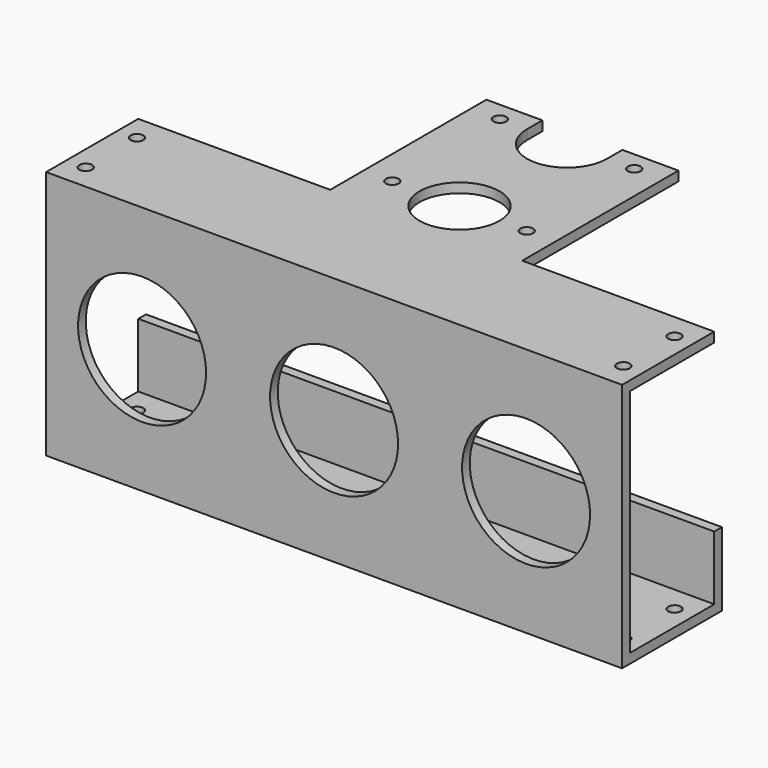
from build123d import *

# Parameters (mm, degrees)
F0_W      = 30
F0_H      = 48.5
F1_DEPTH  = 1.5
F2_W      = 30
F2_H      = 1.5
F3_DEPTH  = 37.5
F4_W      = 30
F4_H      = 1.5
F5_DEPTH  = 18
F6_W      = 30
F6_H      = 1.5
F7_DEPTH  = 10
F9_DEPTH  = 30
F11_R     = 1
F11_R_2   = 6.25
F12_DEPTH = 1.5
F13_R     = 1
F14_DEPTH = 1.5
F15_R     = 10
F16_DEPTH = 1.5


with BuildPart() as f1:
    # F0 (on Top) → F1 (new body)
    with BuildSketch(Plane.XY):
        Rectangle(F0_W, F0_H)
    extrude(amount=F1_DEPTH)

    # F2 (on face) → F3 (join)
    with BuildSketch(Plane(origin=(0, 0, 0), x_dir=(1, 0, 0), z_dir=(0, 0, -1))):
        with Locations((0, 23.5)):
            Rectangle(F2_W, F2_H)
    extrude(amount=F3_DEPTH)

    # F4 (on face) → F5 (join)
    with BuildSketch(Plane(origin=(0, -22.75, 0), x_dir=(-1, 0, 0), z_dir=(0, 1, 0))):
        with Locations((0, -36.75)):
            Rectangle(F4_W, F4_H)
    extrude(amount=F5_DEPTH)

    # F6 (on face) → F7 (join)
    with BuildSketch(Plane.XY.offset(-36)):
        with Locations((0, -5.5)):
            Rectangle(F6_W, F6_H)
    extrude(amount=F7_DEPTH)

    # F8 (on face) → F9 (join)
    with BuildSketch(Plane.YZ.offset(15)):
        Polygon((-22.75, 1.5), (-24.25, 1.5), (-24.25, -37.5), (-22.75, -37.5), (-6.25, -37.5), (-4.75, -37.5), (-4.75, -26), (-6.25, -26), (-6.25, -36), (-22.75, -36), (-22.75, 0), (-6.25, 0), (-6.25, 1.5), align=None)
    extrude(amount=F9_DEPTH)

    # F10: F1 across plane


with BuildPart() as f1_1:
    add(f1.part)
    add(f1.part.mirror(Plane.YZ))

    # F11 (on face) → F12 (cut, through all)
    with BuildSketch(Plane.XY.offset(1.5)):
        with Locations((10.5, 21.25)):
            Circle(F11_R)
        with Locations((10.5, 0.25)):
            Circle(F11_R)
        with BuildLine():
            Line((-6.25, 24.25), (-6.25, 21.25))
            ThreePointArc((-6.25, 21.25), (0, 15), (6.25, 21.25))
            Line((6.25, 21.25), (6.25, 24.25))
            Line((6.25, 24.25), (-6.25, 24.25))
        make_face()
        with Locations((-10.5, 21.25)):
            Circle(F11_R)
        with Locations((-10.5, 0.25)):
            Circle(F11_R)
        with Locations((0, 0.25)):
            Circle(F11_R_2)
        with Locations((-42, -10.25)):
            Circle(F11_R)
        with Locations((-42, -20.25)):
            Circle(F11_R)
        with Locations((42, -10.25)):
            Circle(F11_R)
        with Locations((42, -20.25)):
            Circle(F11_R)
    extrude(amount=-F12_DEPTH, mode=Mode.SUBTRACT)

    # F13 (on face) → F14 (cut, through all)
    with BuildSketch(Plane.XY.offset(-36)):
        with Locations((-42, -10.25)):
            Circle(F13_R)
        with Locations((-42, -20.25)):
            Circle(F13_R)
        with Locations((42, -10.25)):
            Circle(F13_R)
        with Locations((42, -20.25)):
            Circle(F13_R)
    extrude(amount=-F14_DEPTH, mode=Mode.SUBTRACT)

    # F15 (on face) → F16 (cut, through all)
    with BuildSketch(Plane.XZ.offset(24.25)):
        with Locations((0, -18)):
            Circle(F15_R)
        with Locations((-30, -18)):
            Circle(F15_R)
        with Locations((30, -18)):
            Circle(F15_R)
    extrude(amount=-F16_DEPTH, mode=Mode.SUBTRACT)


solid = f1_1.part
